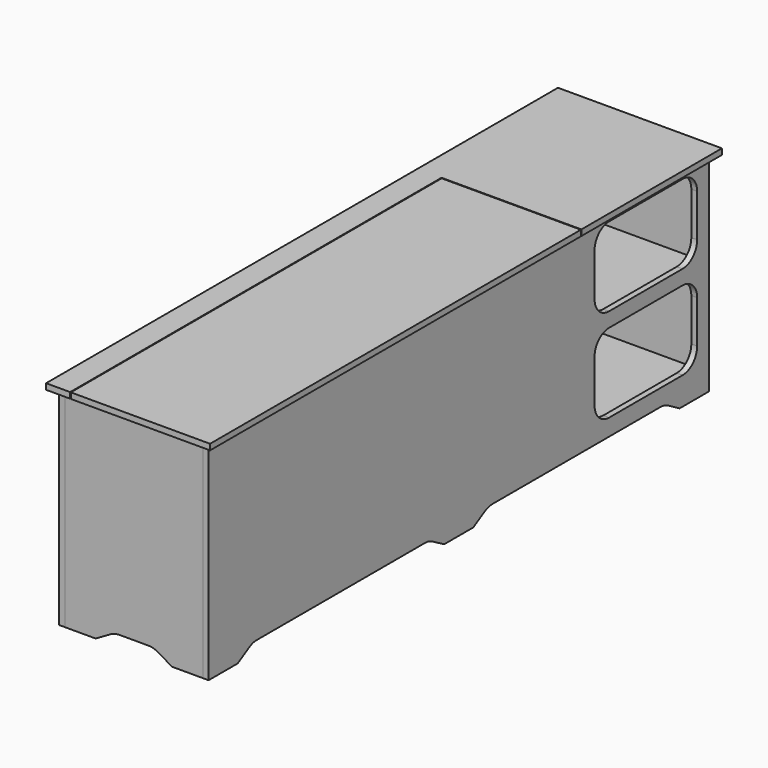
from build123d import *

# Parameters (mm, degrees)
F0_W      = 1716
F0_H      = 570
F1_DEPTH  = 16
F3_W      = 1716
F3_H      = 570
F4_DEPTH  = 16
F5_W      = 378
F5_H      = 570
F6_DEPTH  = 16
F7_W      = 378
F7_H      = 570
F8_DEPTH  = 16
F9_W      = 450
F9_H      = 1756
F9_W_2    = 16
F9_H_2    = 1716
F10_DEPTH = 16
F11_W     = 1684
F11_H     = 16
F12_DEPTH = 378
F13_W     = 16
F13_H     = 514
F14_DEPTH = 378
F15_W     = 400
F15_H     = 16
F16_DEPTH = 378
F18_DEPTH = 410
F20_DEPTH = 1716
F21_R     = 50
F21_2_R   = 50
F21_3_R   = 50
F21_4_R   = 50
F22_W     = 352
F22_H     = 217
F23_DEPTH = 16
F24_R     = 50
F26_DEPTH = 16
F27_W     = 16
F27_H     = 60
F28_DEPTH = 16


with BuildPart() as f1:
    # F0 (on Right) → F1 (new body)
    with BuildSketch(Plane.YZ):
        with Locations((858, 285)):
            Rectangle(F0_W, F0_H)
    extrude(amount=F1_DEPTH)


with BuildPart() as f4:
    # F3 (on offset) → F4 (new body)
    with BuildSketch(Plane.YZ.offset(410)):
        with Locations((858, 285)):
            Rectangle(F3_W, F3_H)
    extrude(amount=-F4_DEPTH)


with BuildPart() as f6:
    # F5 (on Front) → F6 (new body)
    with BuildSketch(Plane.XZ):
        with Locations((205, 285)):
            Rectangle(F5_W, F5_H)
    extrude(amount=-F6_DEPTH)


with BuildPart() as f8:
    # F7 (on face) → F8 (new body)
    with BuildSketch(Plane(origin=(0, 1716, 0), x_dir=(-1, 0, 0), z_dir=(0, 1, 0))):
        with Locations((-205, 285)):
            Rectangle(F7_W, F7_H)
    extrude(amount=-F8_DEPTH)


with BuildPart() as f10:
    # F9 (on face) → F10 (new body)
    with BuildSketch(Plane.XY.offset(570)):
        with Locations((205, 858)):
            Rectangle(F9_W, F9_H)
        with Locations((8, 858)):
            Rectangle(F9_W_2, F9_H_2, mode=Mode.SUBTRACT)
        with Locations((8, 858)):
            Rectangle(F9_W_2, F9_H_2)
    extrude(amount=F10_DEPTH)

    # F25 (on face) → F26 (cut, through all)
    with BuildSketch(Plane.XY.offset(586)):
        Polygon((430, 1252), (430, 1254), (46, 1254), (46, -20), (48, -20), (48, 1252), align=None)
    extrude(amount=-F26_DEPTH, mode=Mode.SUBTRACT)


with BuildPart() as f12:
    # F11 (on face) → F12 (new body, through all)
    with BuildSketch(Plane.YZ.offset(16)):
        with Locations((858, 48)):
            Rectangle(F11_W, F11_H)
    extrude(amount=F12_DEPTH)


with BuildPart() as f14:
    # F13 (on face) → F14 (new body, through all)
    with BuildSketch(Plane.YZ.offset(16)):
        with Locations((1292, 313)):
            Rectangle(F13_W, F13_H)
    extrude(amount=F14_DEPTH)


with BuildPart() as f16:
    # F15 (on face) → F16 (new body, through all)
    with BuildSketch(Plane.YZ.offset(16)):
        with Locations((1500, 313)):
            Rectangle(F15_W, F15_H)
    extrude(amount=F16_DEPTH)


with BuildPart() as f18_tool:
    # F17 (on face) → F18 (new body, through all)
    with BuildSketch(Plane.YZ.offset(410)):
        Polygon((151.9615242271, 30), (100, 0), (808, 0), (756.0384757729, 30), align=None)
        Polygon((908, 0), (1616, 0), (1564.0384757729, 30), (959.9615242271, 30), align=None)
    extrude(amount=-F18_DEPTH)


with BuildPart() as f1_1:
    add(f1.part)

    # F18: cut by f18_tool
    add(f18_tool.part, mode=Mode.SUBTRACT)

    # F21#2
    f21_2_edges = [f1_1.edges().sort_by_distance(p)[0] for p in [
        (8, 151.961524, 30),
        (8, 1564.038476, 30),
        (8, 756.038476, 30),
        (8, 959.961524, 30),
    ]]
    fillet(f21_2_edges, radius=F21_2_R)



with BuildPart() as f4_1:
    add(f4.part)

    # F18: cut by f18_tool
    add(f18_tool.part, mode=Mode.SUBTRACT)

    # F21
    f21_edges = [f4_1.edges().sort_by_distance(p)[0] for p in [
        (402, 151.961524, 30),
        (402, 1564.038476, 30),
        (402, 756.038476, 30),
        (402, 959.961524, 30),
    ]]
    fillet(f21_edges, radius=F21_R)

    # F22 (on face) → F23 (cut, through all)
    with BuildSketch(Plane.YZ.offset(410)):
        with Locations((1500, 441.5)):
            Rectangle(F22_W, F22_H)
        with Locations((1500, 184.5)):
            Rectangle(F22_W, F22_H)
    extrude(amount=-F23_DEPTH, mode=Mode.SUBTRACT)

    # F24
    f24_edges = [f4_1.edges().sort_by_distance(p)[0] for p in [
        (402, 1676, 333),
        (402, 1676, 76),
        (402, 1676, 293),
        (402, 1676, 550),
        (402, 1324, 550),
        (402, 1324, 293),
        (402, 1324, 333),
        (402, 1324, 76),
    ]]
    fillet(f24_edges, radius=F24_R)


with BuildPart() as f20_tool:
    # F19 (on face) → F20 (new body, through all)
    with BuildSketch(Plane.XZ):
        Polygon((151.9615242271, 30), (100, 0), (310, 0), (258.0384757729, 30), align=None)
    extrude(amount=-F20_DEPTH)


with BuildPart() as f6_1:
    add(f6.part)

    # F20: cut by f20_tool
    add(f20_tool.part, mode=Mode.SUBTRACT)

    # F21#4
    f21_4_edges = [f6_1.edges().sort_by_distance(p)[0] for p in [
        (258.038476, 8, 30),
        (151.961524, 8, 30),
    ]]
    fillet(f21_4_edges, radius=F21_4_R)


with BuildPart() as f8_1:
    add(f8.part)

    # F20: cut by f20_tool
    add(f20_tool.part, mode=Mode.SUBTRACT)

    # F21#3
    f21_3_edges = [f8_1.edges().sort_by_distance(p)[0] for p in [
        (151.961524, 1708, 30),
        (258.038476, 1708, 30),
    ]]
    fillet(f21_3_edges, radius=F21_3_R)


with BuildPart() as f1_2:
    add(f1_1.part)

    add(f4_1.part)  # F28 merges F4
    # F27 (on face) → F28 (join, through all)
    with BuildSketch(Plane.XZ):
        with Locations((402, 474)):
            Rectangle(F27_W, F27_H)
        with Locations((402, 348)):
            Rectangle(F27_W, F27_H)
        with Locations((402, 222)):
            Rectangle(F27_W, F27_H)
        with Locations((402, 96)):
            Rectangle(F27_W, F27_H)
        with Locations((8, 96)):
            Rectangle(F27_W, F27_H)
        with Locations((8, 474)):
            Rectangle(F27_W, F27_H)
        with Locations((8, 222)):
            Rectangle(F27_W, F27_H)
        with Locations((8, 348)):
            Rectangle(F27_W, F27_H)
    extrude(amount=-F28_DEPTH)


solid = Compound([f10.part, f12.part, f14.part, f16.part, f6_1.part, f8_1.part, f1_2.part])
